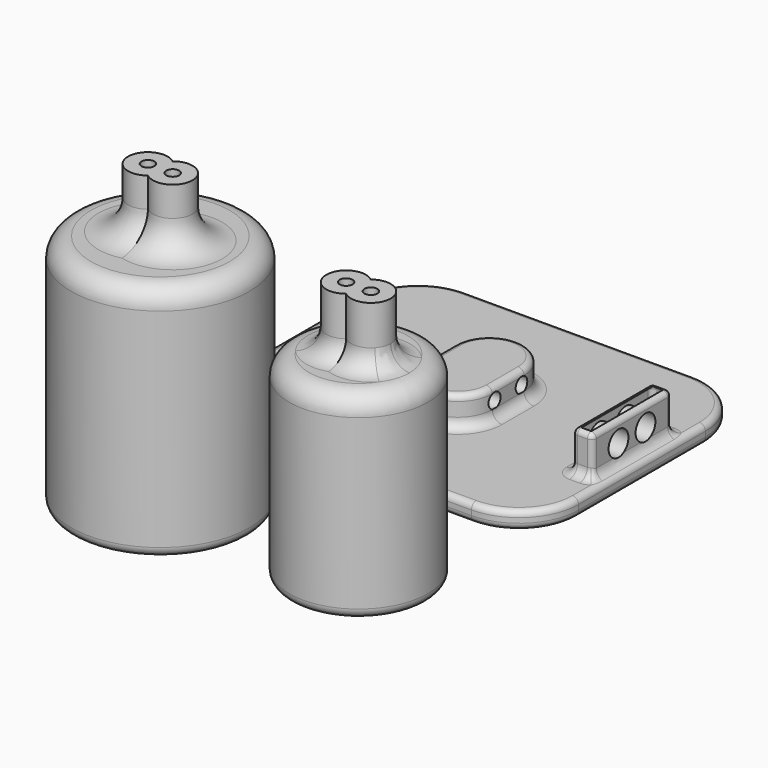
from build123d import *

# Parameters (mm, degrees)
PAD_DEPTH       = 6
SKETCH002_R     = 0.65
POCKET_DEPTH    = 10
CHAMFER_SIZE    = 0.7
FILLET_R        = 1
FILLET001_R     = 2
FILLET002_R     = 2
PAD001_DEPTH    = 6
SKETCH005_R     = 0.65
POCKET001_DEPTH = 10
CHAMFER001_SIZE = 0.7
FILLET003_R     = 1
FILLET004_R     = 2
FILLET005_R     = 3
PAD002_DEPTH    = 1.8
FILLET006_R     = 0.7
FILLET007_R     = 0.6
PAD003_DEPTH    = 4
FILLET008_R     = 1
FILLET009_R     = 0.5
PAD004_DEPTH    = 3
POCKET002_DEPTH = 3.5
FILLET010_R     = 0.6
FILLET011_R     = 1
FILLET012_R     = 0.6
SKETCH010_R     = 0.75
POCKET003_DEPTH = 4.3
SKETCH011_R     = 1.25
POCKET004_DEPTH = 2.5


with BuildPart() as lens_9mm:
    # Sketch → Revolution (revolve)
    with BuildSketch(Plane.XZ):
        Polygon((4.6, 0), (4.6, 7), (2.7, 14.5), (2.7, 15.5), (3.1, 15.5), (3.1, 17), (0, 17), (0, 20), (7, 20), (7, 0), align=None)
    revolve(axis=Axis((0, 0, 0), (0, 0, 1)))

    # Sketch001 (on Face7 of Revolution) → Pad (new body)
    with BuildSketch(Plane(origin=(0, 0, 20), x_dir=(-1, 0, 0), z_dir=(0, 0, 1))):
        with BuildLine():
            ThreePointArc((0.002513, -1.559234), (3.246856, -1e-06), (0.002513, 1.559234))
            ThreePointArc((0.002513, 1.559234), (-3.25, 0), (0.002513, -1.559234))
        make_face()
    extrude(amount=PAD_DEPTH)

    # Sketch002 (on Face11 of Pad) → Pocket (cut)
    with BuildSketch(Plane(origin=(0, 0, 26), x_dir=(-1, 0, 0), z_dir=(0, 0, 1))):
        with Locations((-1.25, 0)):
            Circle(SKETCH002_R)
        with Locations((1.25, 0)):
            Circle(SKETCH002_R)
    extrude(amount=-POCKET_DEPTH, mode=Mode.SUBTRACT)

    # Chamfer
    chamfer_edges = [lens_9mm.edges().sort_by_distance(p)[0] for p in [
        (-4.6, 0, 0),
    ]]
    chamfer(chamfer_edges, length=CHAMFER_SIZE)

    # Fillet
    fillet_edges = [lens_9mm.edges().sort_by_distance(p)[0] for p in [
        (-7, 0, 0),
    ]]
    fillet(fillet_edges, radius=FILLET_R)

    # Fillet001
    fillet001_edges = [lens_9mm.edges().sort_by_distance(p)[0] for p in [
        (-7, 0, 20),
    ]]
    fillet(fillet001_edges, radius=FILLET001_R)

    # Fillet002
    fillet002_edges = [lens_9mm.edges().sort_by_distance(p)[0] for p in [
        (-3.246856, 1e-06, 20),
        (3.25, 0, 20),
    ]]
    fillet(fillet002_edges, radius=FILLET002_R)


with BuildPart() as lens_9mm_1:
    # Body placement: moved
    add(lens_9mm.part.moved(Location((20, 0, 0))))


with BuildPart() as lens_14mm:
    # Sketch003 → Revolution001 (revolve)
    with BuildSketch(Plane.XZ):
        Polygon((7, 0), (7, 8), (2.7, 18.5), (2.7, 19.5), (3.1, 19.5), (3.1, 21), (0, 21), (0, 24), (9, 24), (9, 0), align=None)
    revolve(axis=Axis((0, 0, 0), (0, 0, 1)))

    # Sketch004 (on Face7 of Revolution001) → Pad001 (new body)
    with BuildSketch(Plane(origin=(0, 0, 24), x_dir=(-1, 0, 0), z_dir=(0, 0, 1))):
        with BuildLine():
            ThreePointArc((0.002513, -1.559234), (3.246856, -1e-06), (0.002513, 1.559234))
            ThreePointArc((0.002513, 1.559234), (-3.25, 0), (0.002513, -1.559234))
        make_face()
    extrude(amount=PAD001_DEPTH)

    # Sketch005 (on Face11 of Pad001) → Pocket001 (cut)
    with BuildSketch(Plane(origin=(0, 0, 30), x_dir=(-1, 0, 0), z_dir=(0, 0, 1))):
        with Locations((-1.25, 0)):
            Circle(SKETCH005_R)
        with Locations((1.25, 0)):
            Circle(SKETCH005_R)
    extrude(amount=-POCKET001_DEPTH, mode=Mode.SUBTRACT)

    # Chamfer001
    chamfer001_edges = [lens_14mm.edges().sort_by_distance(p)[0] for p in [
        (-7, 0, 0),
    ]]
    chamfer(chamfer001_edges, length=CHAMFER001_SIZE)

    # Fillet003
    fillet003_edges = [lens_14mm.edges().sort_by_distance(p)[0] for p in [
        (-9, 0, 0),
    ]]
    fillet(fillet003_edges, radius=FILLET003_R)

    # Fillet004
    fillet004_edges = [lens_14mm.edges().sort_by_distance(p)[0] for p in [
        (-9, 0, 24),
    ]]
    fillet(fillet004_edges, radius=FILLET004_R)

    # Fillet005
    fillet005_edges = [lens_14mm.edges().sort_by_distance(p)[0] for p in [
        (-3.246856, 1e-06, 24),
        (3.25, 0, 24),
    ]]
    fillet(fillet005_edges, radius=FILLET005_R)


with BuildPart() as obj1:
    # Sketch006 → Pad002 (new body)
    with BuildSketch(Plane.XY):
        with BuildLine():
            Line((-12, 14), (11, 14))
            ThreePointArc((17, 8), (15.242641, 12.242641), (11, 14))
            Line((17, 8), (17, -8))
            ThreePointArc((11, -14), (15.242641, -12.242641), (17, -8))
            Line((11, -14), (-12, -14))
            ThreePointArc((-18, -8), (-16.242641, -12.242641), (-12, -14))
            Line((-18, -8), (-18, 8))
            ThreePointArc((-12, 14), (-16.242641, 12.242641), (-18, 8))
        make_face()
    extrude(amount=PAD002_DEPTH)

    # Fillet006
    fillet006_edges = [obj1.edges().sort_by_distance(p)[0] for p in [
        (-16.242641, -12.242641, 0),
        (-0.5, -14, 0),
        (15.242641, -12.242641, 0),
        (17, 0, 0),
        (15.242641, 12.242641, 0),
        (-0.5, 14, 0),
        (-16.242641, 12.242641, 0),
        (-18, 0, 0),
    ]]
    fillet(fillet006_edges, radius=FILLET006_R)

    # Fillet007
    fillet007_edges = [obj1.edges().sort_by_distance(p)[0] for p in [
        (-18, 0, 1.8),
        (-16.242641, 12.242641, 1.8),
        (-0.5, 14, 1.8),
        (15.242641, 12.242641, 1.8),
        (17, 0, 1.8),
        (15.242641, -12.242641, 1.8),
        (-0.5, -14, 1.8),
        (-16.242641, -12.242641, 1.8),
    ]]
    fillet(fillet007_edges, radius=FILLET007_R)

    # Sketch007 (on Face9 of Fillet007) → Pad003 (join)
    with BuildSketch(Plane.XY.offset(1.8)):
        with BuildLine():
            Line((14.5, 5), (15.5, 5))
            ThreePointArc((16, 4.5), (15.853553, 4.853553), (15.5, 5))
            Line((16, 4.5), (16, -4.5))
            ThreePointArc((15.5, -5), (15.853553, -4.853553), (16, -4.5))
            Line((15.5, -5), (14.5, -5))
            ThreePointArc((14, -4.5), (14.146447, -4.853553), (14.5, -5))
            Line((14, -4.5), (14, 4.5))
            ThreePointArc((14.5, 5), (14.146447, 4.853553), (14, 4.5))
        make_face()
    extrude(amount=PAD003_DEPTH)

    # Fillet008
    fillet008_edges = [obj1.edges().sort_by_distance(p)[0] for p in [
        (15, -5, 1.8),
    ]]
    fillet(fillet008_edges, radius=FILLET008_R)

    # Fillet009
    fillet009_edges = [obj1.edges().sort_by_distance(p)[0] for p in [
        (15, -5, 5.8),
    ]]
    fillet(fillet009_edges, radius=FILLET009_R)

    # Sketch008 (on Face14 of Fillet009) → Pad004 (join)
    with BuildSketch(Plane.XY.offset(1.8)):
        with BuildLine():
            ThreePointArc((3.5, 2), (0, 5.5), (-3.5, 2))
            Line((-3.5, 2), (-3.5, -2))
            ThreePointArc((-3.5, -2), (0, -5.5), (3.5, -2))
            Line((3.5, -2), (3.5, 2))
        make_face()
    extrude(amount=PAD004_DEPTH)

    # Sketch009 (on Face53 of Pad004) → Pocket002 (cut)
    with BuildSketch(Plane(origin=(0, 0, 0), x_dir=(1, 0, 0), z_dir=(0, 0, -1))):
        with BuildLine():
            ThreePointArc((2.4, 0.7), (0, 3.1), (-2.4, 0.7))
            Line((-2.4, 0.7), (-2.4, -0.7))
            ThreePointArc((-2.4, -0.7), (0, -3.1), (2.4, -0.7))
            Line((2.4, -0.7), (2.4, 0.7))
        make_face()
    extrude(amount=-POCKET002_DEPTH, mode=Mode.SUBTRACT)

    # Fillet010
    fillet010_edges = [obj1.edges().sort_by_distance(p)[0] for p in [
        (0, 3.1, 0),
    ]]
    fillet(fillet010_edges, radius=FILLET010_R)

    # Fillet011
    fillet011_edges = [obj1.edges().sort_by_distance(p)[0] for p in [
        (0, 5.5, 1.8),
    ]]
    fillet(fillet011_edges, radius=FILLET011_R)

    # Fillet012
    fillet012_edges = [obj1.edges().sort_by_distance(p)[0] for p in [
        (0, 5.5, 4.8),
    ]]
    fillet(fillet012_edges, radius=FILLET012_R)

    # Sketch010 (on Face2 of Fillet012) → Pocket003 (cut)
    with BuildSketch(Plane.YZ.offset(3.5)):
        with Locations((-1.7, 3.490468)):
            Circle(SKETCH010_R)
        with Locations((1.7, 3.480308)):
            Circle(SKETCH010_R)
    extrude(amount=-POCKET003_DEPTH, mode=Mode.SUBTRACT)

    # Sketch011 (on Face75 of Pocket003) → Pocket004 (cut, symmetric)
    with BuildSketch(Plane.YZ.offset(16)):
        with Locations((-1.7, 3.750157)):
            Circle(SKETCH011_R)
        with Locations((1.7, 3.780638)):
            Circle(SKETCH011_R)
    extrude(amount=POCKET004_DEPTH, both=True, mode=Mode.SUBTRACT)


with BuildPart() as obj1_1:
    # Body003 placement: moved
    add(obj1.part.moved(Location((10, 27, 0))))


solid = Compound([lens_9mm_1.part, lens_14mm.part, obj1_1.part])
